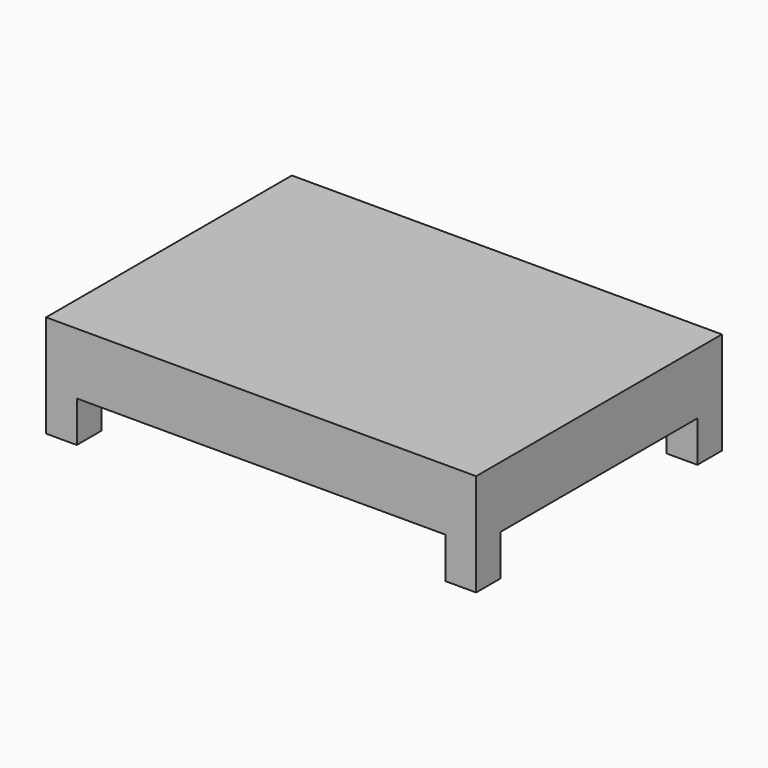
from build123d import *

# Parameters (mm, degrees)
BOX012_W                  = 5
BOX012_H                  = 5
BOX012_DEPTH              = 6.66667
ARRAY_X_COUNT             = 2
ARRAY_X_PITCH             = 45
ARRAY_Y_COUNT             = 2
ARRAY_Y_PITCH             = 65
BOX011_W                  = 50
BOX011_H                  = 70
BOX011_DEPTH              = 10
FUSION003_PLACEMENT_ANGLE = 90


with BuildPart() as obj1:
    # Box012 → Box012 (new body)
    with BuildSketch(Plane(origin=(30, 20, 0), x_dir=(1, 0, 0), z_dir=(0, 0, 1))):
        with Locations((2.5, 2.5)):
            Rectangle(BOX012_W, BOX012_H)
    extrude(amount=BOX012_DEPTH)

    # Array X: obj1_2


with BuildPart() as obj1_1:
    add(obj1.part)
    with Locations(*[(i * ARRAY_X_PITCH, 0, 0) for i in range(1, ARRAY_X_COUNT)]):
        add(obj1.part)

    # Array Y: obj1_2


with BuildPart() as obj1_2:
    add(obj1_1.part)
    with Locations(*[(0, i * ARRAY_Y_PITCH, 0) for i in range(1, ARRAY_Y_COUNT)]):
        add(obj1_1.part)


with BuildPart() as fusion003:
    # Box011 → Box011 (new body)
    with BuildSketch(Plane(origin=(30, 20, 6.66667), x_dir=(1, 0, 0), z_dir=(0, 0, 1))):
        with Locations((25, 35)):
            Rectangle(BOX011_W, BOX011_H)
    extrude(amount=BOX011_DEPTH)

    # Fusion003: union obj1
    add(obj1_2.part)


with BuildPart() as fusion003_1:
    # Fusion003 placement: moved
    add(fusion003.part.moved(Location((210, 0, 97))).rotate(Axis((210, 0, 97), (0, 0, 1)), FUSION003_PLACEMENT_ANGLE))


solid = fusion003_1.part
